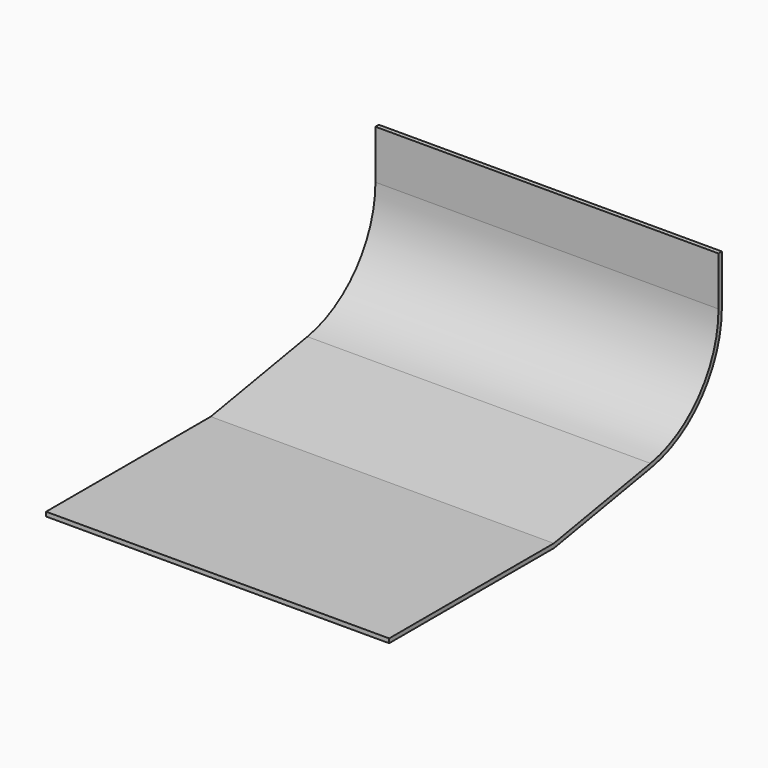
from build123d import *

# Parameters (mm, degrees)
F1_DEPTH = 127


with BuildPart() as f1:
    # F0 (on Right) → F1 (new body)
    with BuildSketch(Plane.YZ):
        with BuildLine():
            Line((120.915996, 7.884636), (76.2, 0))
            Line((76.2, 0), (85.342048, 0))
            Line((85.342048, 0), (121.191662, 6.321254))
            ThreePointArc((121.191662, 6.321254), (144.702389, 19.895179), (153.9875, 45.405812))
            Line((153.9875, 45.405812), (153.9875, 63.5))
            Line((153.9875, 63.5), (152.4, 63.5))
            Line((152.4, 63.5), (152.4, 45.405812))
            ThreePointArc((152.4, 45.405812), (143.486293, 20.915604), (120.915996, 7.884636))
        make_face()
        Polygon((76.2, 0), (0, 0), (0, -1.5875), (76.338888, -1.5875), (85.342048, 0), align=None)
    extrude(amount=F1_DEPTH)


solid = f1.part
